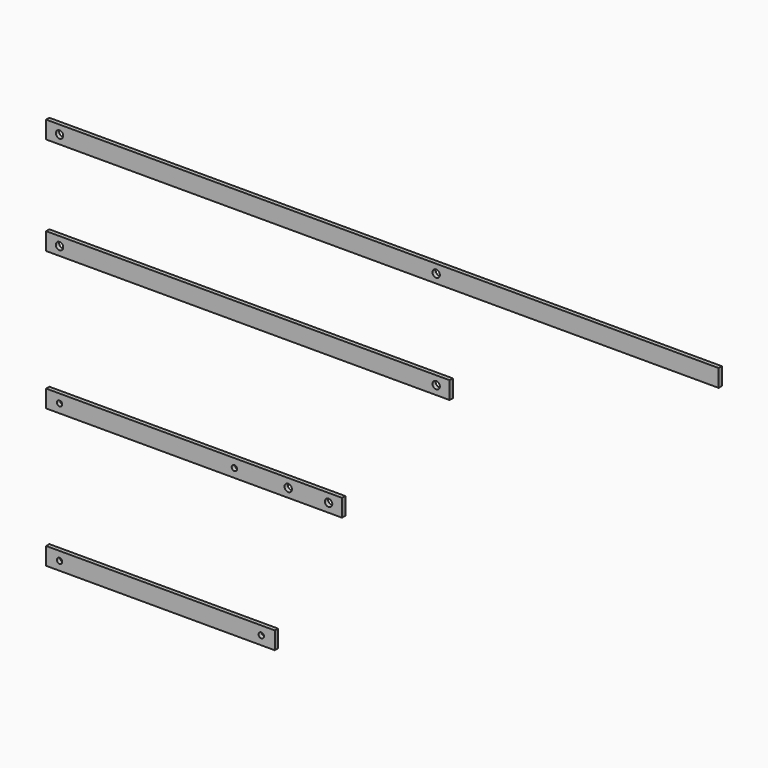
from build123d import *

# Parameters (mm, degrees)
F1_DEPTH = 3


with BuildPart() as f1:
    # F0 (on Front) → F1 (new body)
    with BuildSketch(Plane.XZ):
        with BuildLine():
            Line((320, 179.75), (-180, 179.75))
            Line((-180, 179.75), (-180, 173.25))
            Line((-180, 173.25), (-172.75, 173.25))
            ThreePointArc((-172.75, 173.25), (-170, 176), (-167.25, 173.25))
            Line((-167.25, 173.25), (107.25, 173.25))
            ThreePointArc((107.25, 173.25), (110, 176), (112.75, 173.25))
            Line((112.75, 173.25), (320, 173.25))
            Line((320, 173.25), (320, 179.75))
        make_face()
        with BuildLine():
            Line((-172.75, 173.25), (-180, 173.25))
            Line((-180, 173.25), (-180, 166.75))
            Line((-180, 166.75), (320, 166.75))
            Line((320, 166.75), (320, 173.25))
            Line((320, 173.25), (112.75, 173.25))
            ThreePointArc((112.75, 173.25), (110, 170.5), (107.25, 173.25))
            Line((107.25, 173.25), (-167.25, 173.25))
            ThreePointArc((-167.25, 173.25), (-170, 170.5), (-172.75, 173.25))
        make_face()
        with BuildLine():
            Line((120, 106.75), (-180, 106.75))
            Line((-180, 106.75), (-180, 100.25))
            Line((-180, 100.25), (-172.75, 100.25))
            ThreePointArc((-172.75, 100.25), (-170, 103), (-167.25, 100.25))
            Line((-167.25, 100.25), (107.25, 100.25))
            ThreePointArc((107.25, 100.25), (110, 103), (112.75, 100.25))
            Line((112.75, 100.25), (120, 100.25))
            Line((120, 100.25), (120, 106.75))
        make_face()
        with BuildLine():
            Line((-172.75, 100.25), (-180, 100.25))
            Line((-180, 100.25), (-180, 93.75))
            Line((-180, 93.75), (120, 93.75))
            Line((120, 93.75), (120, 100.25))
            Line((120, 100.25), (112.75, 100.25))
            ThreePointArc((112.75, 100.25), (110, 97.5), (107.25, 100.25))
            Line((107.25, 100.25), (-167.25, 100.25))
            ThreePointArc((-167.25, 100.25), (-170, 97.5), (-172.75, 100.25))
        make_face()
        with BuildLine():
            Line((40, 3.75), (-180, 3.75))
            Line((-180, 3.75), (-180, -2.75))
            Line((-180, -2.75), (-172, -2.75))
            ThreePointArc((-172, -2.75), (-170, -0.75), (-168, -2.75))
            Line((-168, -2.75), (-42, -2.75))
            ThreePointArc((-42, -2.75), (-40, -0.75), (-38, -2.75))
            Line((-38, -2.75), (-2.75, -2.75))
            ThreePointArc((-2.75, -2.75), (0, 0), (2.75, -2.75))
            Line((2.75, -2.75), (27.25, -2.75))
            ThreePointArc((27.25, -2.75), (30, 0), (32.75, -2.75))
            Line((32.75, -2.75), (40, -2.75))
            Line((40, -2.75), (40, 3.75))
        make_face()
        with BuildLine():
            Line((-172, -2.75), (-180, -2.75))
            Line((-180, -2.75), (-180, -9.25))
            Line((-180, -9.25), (40, -9.25))
            Line((40, -9.25), (40, -2.75))
            Line((40, -2.75), (32.75, -2.75))
            ThreePointArc((32.75, -2.75), (30, -5.5), (27.25, -2.75))
            Line((27.25, -2.75), (2.75, -2.75))
            ThreePointArc((2.75, -2.75), (0, -5.5), (-2.75, -2.75))
            Line((-2.75, -2.75), (-38, -2.75))
            ThreePointArc((-38, -2.75), (-40, -4.75), (-42, -2.75))
            Line((-42, -2.75), (-168, -2.75))
            ThreePointArc((-168, -2.75), (-170, -4.75), (-172, -2.75))
        make_face()
        with BuildLine():
            Line((-10, -99.25), (-180, -99.25))
            Line((-180, -99.25), (-180, -105.75))
            Line((-180, -105.75), (-172, -105.75))
            ThreePointArc((-172, -105.75), (-170, -103.75), (-168, -105.75))
            Line((-168, -105.75), (-22, -105.75))
            ThreePointArc((-22, -105.75), (-20, -103.75), (-18, -105.75))
            Line((-18, -105.75), (-10, -105.75))
            Line((-10, -105.75), (-10, -99.25))
        make_face()
        with BuildLine():
            Line((-172, -105.75), (-180, -105.75))
            Line((-180, -105.75), (-180, -112.25))
            Line((-180, -112.25), (-10, -112.25))
            Line((-10, -112.25), (-10, -105.75))
            Line((-10, -105.75), (-18, -105.75))
            ThreePointArc((-18, -105.75), (-20, -107.75), (-22, -105.75))
            Line((-22, -105.75), (-168, -105.75))
            ThreePointArc((-168, -105.75), (-170, -107.75), (-172, -105.75))
        make_face()
    extrude(amount=F1_DEPTH)


solid = f1.part
